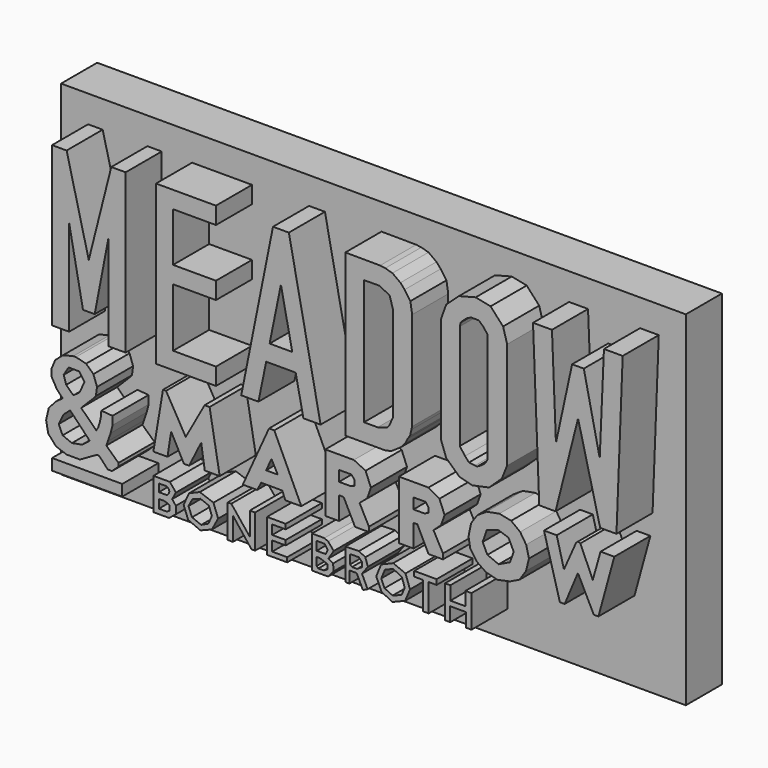
from build123d import *

# Parameters (mm, degrees)
F0_W     = 7.781072
F0_H     = 1.239631
F2_DEPTH = 10
F3_W     = 69.258133
F3_H     = 38.1514123977
F4_DEPTH = 5


with BuildPart() as f2:
    # F0 (on Front) → F2 (new body)
    with BuildSketch(Plane.XZ):
        with Locations((-27.738531, -15.3535525)):
            Rectangle(F0_W, F0_H)
    extrude(amount=F2_DEPTH)



with BuildPart() as f2b:
    # F0 (on Front) → F2, piece 2 (new body)
    with BuildSketch(Plane.XZ):
        Polygon((31.629066, 15.801307), (29.551824, 15.801307), (29.081784, 4.994344), (27.31923, 13.161697), (26.021398, 13.161697), (24.230336, 4.892111), (23.788804, 15.801307), (21.687425, 15.801307), (22.379997, -1.787542), (24.185076, -1.787542), (26.681715, 8.091506), (29.133267, -1.787542), (30.938798, -1.787542), align=None)
    extrude(amount=F2_DEPTH)


with BuildPart() as f2c:
    # F0 (on Front) → F2, piece 3 (new body)
    with BuildSketch(Plane.XZ):
        Polygon((-13.460064, -1.795186), (-13.460064, 0.096366), (-18.214188, 0.096366), (-18.214188, 6.585074), (-13.460064, 6.585074), (-13.460064, 8.477034), (-18.214188, 8.477034), (-18.214188, 13.909777), (-13.460064, 13.909777), (-13.460064, 15.801329), (-20.105717, 15.801329), (-20.105717, -1.795186), align=None)
    extrude(amount=F2_DEPTH)


with BuildPart() as f2d:
    # F0 (on Front) → F2, piece 4 (new body)
    with BuildSketch(Plane.XZ):
        Polygon((-25.061746, 15.801329), (-27.560323, 5.914615), (-30.013769, 15.801329), (-31.629067, 15.801329), (-31.629067, -1.795186), (-29.737537, -1.795186), (-29.737537, 8.850956), (-28.197838, 0.844468), (-26.900005, 0.844468), (-25.360328, 8.850956), (-25.360328, -1.795186), (-23.468777, -1.795186), (-23.468777, 15.801329), align=None)
    extrude(amount=F2_DEPTH)


with BuildPart() as f2e:
    # F0 (on Front) → F2, piece 5 (new body)
    with BuildSketch(Plane.XZ):
        Polygon((-1.857649, -1.795186), (-5.376965, 15.801329), (-7.136612, 15.801329), (-10.655907, -1.795186), (-8.748895, -1.795186), (-7.89055, 2.383995), (-4.623006, 2.383995), (-3.764661, -1.795186), align=None)
        Polygon((-5.001062, 4.275525), (-7.512515, 4.275525), (-6.256778, 10.442031), align=None, mode=Mode.SUBTRACT)
    extrude(amount=F2_DEPTH)


with BuildPart() as f2f:
    # F1 (on Front) → F2, piece 6 (new body)
    with BuildSketch(Plane.XZ):
        Polygon((10.1046338677, -4.0431474335), (6.8218661472, -4.0431474335), (6.8218661472, -10.5357337743), (8.441365324, -10.5357337743), (8.441365324, -8.0262394622), (8.8644772768, -8.0262394622), (10.1046338677, -10.5357337743), (11.709542945, -10.5357337743), (11.709542945, -9.9521297961), (10.659057647, -8.0262394622), (11.505282484, -7.238375023), (11.8836591635, -6.1437853893), (11.3156111911, -4.743471276), align=None)
        Polygon((8.441365324, -6.7204271909), (8.441365324, -5.5459258147), (9.7836526111, -5.5459258147), (10.1046338677, -5.9690377675), (10.1046338677, -6.5088709816), (9.6669318154, -6.7204271909), align=None, mode=Mode.SUBTRACT)
    extrude(amount=F2_DEPTH)


with BuildPart() as f2g:
    # F1 (on Front) → F2, piece 7 (new body)
    with BuildSketch(Plane.XZ):
        Polygon((-26.5068523586, -10.0844670087), (-26.7253834754, -10.4532707483), (-28.4014325589, -8.7909605354), (-26.9169238013, -7.294182423), (-26.7665982246, -7.101174444), (-26.6429558396, -6.1807218008), (-27.0413607359, -5.0541977398), (-27.851909399, -4.2986022308), (-28.97843346, -4.0238401853), (-29.2656477541, -4.0238401853), (-30.4209329188, -4.3123406358), (-31.2726944685, -5.0541977398), (-31.6710993648, -6.0021267273), (-31.6710993648, -6.8264123984), (-31.0941003263, -7.8524462879), (-30.4484087974, -8.5299368948), (-31.2177427113, -9.0931998566), (-31.9870784879, -9.9586993456), (-32.2893150151, -11.2500814721), (-32.0420302451, -12.5002479181), (-31.1765279621, -13.4619148448), (-30.0087910146, -13.8740576804), (-28.5250749439, -13.8740576804), (-26.6566947103, -12.8024863079), (-26.4231469482, -12.8024863079), (-25.4477411509, -13.8465818018), (-24.9806456268, -13.8465818018), (-24.2662653327, -13.1734153256), (-24.2662653327, -12.8162242472), (-25.6125982851, -11.5660578012), (-25.4477411509, -11.0989622772), (-25.131765753, -10.1922471076), (-24.9256938696, -9.3542234972), (-24.9256938696, -8.4337703884), (-26.1676385999, -8.334832266), (-26.2216818446, -9.0132231777), (-26.3283196837, -9.4893528149), align=None)
        Polygon((-30.3747653961, -10.0844670087), (-29.6192206442, -9.4305658713), (-27.4420622736, -11.7071382701), (-28.2870791852, -12.3433852568), (-29.4303353876, -12.5620961189), (-30.4542966187, -12.1346171945), (-30.8917164803, -11.1802462488), align=None, mode=Mode.SUBTRACT)
        Polygon((-28.5680610687, -7.3373052292), (-29.2656477541, -7.8524462879), (-30.0598237664, -7.0797349326), (-30.3388573229, -6.1997026205), (-29.8022534698, -5.298206117), (-28.6109894514, -5.298206117), (-28.0421879143, -6.1460421421), align=None, mode=Mode.SUBTRACT)
    extrude(amount=F2_DEPTH)


with BuildPart() as f2h:
    # F1 (on Front) → F2, piece 8 (new body)
    with BuildSketch(Plane.XZ):
        Polygon((16.5565069765, -4.3049408936), (15.5175542459, -4.976911936), (14.8318205029, -5.9690377675), (14.5400194451, -7.3696854524), (14.7296898067, -8.4639415145), (15.4591938481, -9.5290178433), (16.4534877986, -10.2255549282), (17.7191533148, -10.5640469119), (19.1213041544, -10.2731119841), (20.1954056424, -9.7539623983), (20.9158845246, -8.6682029068), (21.2368667126, -7.355095353), (20.9274701774, -6.1003486626), (20.2652029693, -5.0745890476), (19.2644428462, -4.3093026616), (17.9546270519, -4.0431474335), align=None)
        Polygon((16.1060863685, -7.4047940161), (16.5565069765, -6.1003486626), (17.8373772651, -5.6626461446), (18.9760527627, -6.0562623827), (19.5442690127, -7.2318810025), (19.1424200013, -8.3943727361), (17.8810413927, -9.0040396899), (16.6300926358, -8.4889438003), align=None, mode=Mode.SUBTRACT)
    extrude(amount=F2_DEPTH)


with BuildPart() as f2i:
    # F1 (on Front) → F2, piece 9 (new body)
    with BuildSketch(Plane.XZ):
        Polygon((7.5561217964, -13.2579887286), (6.1974469572, -12.6948077232), (4.8528518528, -13.2579887286), (4.3107899837, -14.5885040984), (4.8880507238, -15.9119796008), (6.1036472299, -16.5152749827), (7.5138835236, -15.9401372075), (8.0489050597, -14.6518610418), align=None)
        Polygon((5.2752378397, -13.6240562424), (6.1974469572, -13.2579887286), (7.1478150785, -13.7296523899), (7.4716443196, -14.6870603785), (7.1126162075, -15.5036728829), (6.1270492151, -15.8767811954), (5.2329991013, -15.4543947428), (4.8669315875, -14.6166626364), align=None, mode=Mode.SUBTRACT)
    extrude(amount=F2_DEPTH)


with BuildPart() as f2j:
    # F1 (on Front) → F2, piece 10 (new body)
    with BuildSketch(Plane.XZ):
        Polygon((2.3974874057, -12.751265429), (0.89039671, -12.7943251282), (0.89039671, -16.2678100169), (1.3353474205, -16.2678100169), (1.3353474205, -14.9760190398), (2.1391289774, -14.9760190398), (2.8280848637, -16.4113435894), (3.3539663395, -16.1589204435), (2.7279481396, -14.8547160544), (3.3878614195, -13.9569379389), (3.1007963698, -13.1244501099), align=None)
        Polygon((1.412178739, -14.3716884777), (1.412178739, -13.389158994), (1.491978066, -13.3542465046), (2.3747582454, -13.3542465046), (2.7089179493, -13.6784315109), (2.7089179493, -14.2320394516), (2.6191438083, -14.2819136381), (2.1952097304, -14.5562244579), (1.6266393941, -14.5562244579), align=None, mode=Mode.SUBTRACT)
    extrude(amount=F2_DEPTH)


with BuildPart() as f2k:
    # F1 (on Front) → F2, piece 11 (new body)
    with BuildSketch(Plane.XZ):
        Polygon((1.8320573727, -4.0431474335), (-1.3339903671, -4.0431474335), (-1.3339903671, -10.5357337743), (0.1833780989, -10.5357337743), (0.1833780989, -8.0262394622), (0.694030954, -8.0262394622), (1.9633681513, -10.5357337743), (3.4953267314, -10.5357337743), (3.4953267314, -10.0104911253), (2.4594308343, -8.0262394622), (3.3056556713, -7.3113255203), (3.7141779903, -6.1295288615), (3.1305747107, -4.6705207787), align=None)
        Polygon((0.1833780989, -6.713132374), (0.1833780989, -5.5459258147), (1.5548459487, -5.5459258147), (1.9050077535, -5.9690382332), (1.9050077535, -6.5380511805), (1.4818954514, -6.713132374), align=None, mode=Mode.SUBTRACT)
    extrude(amount=F2_DEPTH)


with BuildPart() as f2l:
    # F1 (on Front) → F2, piece 12 (new body)
    with BuildSketch(Plane.XZ):
        Polygon((-19.3303823471, -4.0710284375), (-20.3943345696, -10.4532707483), (-18.8293401152, -10.4532707483), (-18.4252355248, -7.8524462879), (-17.0142930001, -10.5428956449), (-16.4389573038, -10.5428956449), (-15.0965061039, -7.8524462879), (-14.6992504597, -10.4532707483), (-13.0417346954, -10.4532707483), (-14.1650103033, -4.0772124194), (-14.7129492834, -4.0772124194), (-16.8088171631, -7.8524462879), (-18.9937241375, -4.0710284375), align=None)
    extrude(amount=F2_DEPTH)


with BuildPart() as f2m:
    # F1 (on Front) → F2, piece 13 (new body)
    with BuildSketch(Plane.XZ):
        Polygon((24.3145879358, -4.0758317336), (22.904234007, -4.0758317336), (24.6671754867, -10.5007756501), (25.1960586756, -10.5007756501), (26.6651753336, -6.9944802672), (28.4281186759, -10.5007756501), (28.9374124259, -10.5007756501), (30.7003539056, -4.0954202414), (29.1724707931, -4.0954202414), (28.3105894923, -7.1511860006), (26.9394125789, -4.0170671418), (26.6651753336, -3.9387140423), (26.4692939818, -4.0954202414), (25.1177046448, -7.1511860006), align=None)
    extrude(amount=F2_DEPTH)


with BuildPart() as f2n:
    # F1 (on Front) → F2, piece 14 (new body)
    with BuildSketch(Plane.XZ):
        Polygon((-11.7547838017, -12.7301309258), (-12.1563430876, -12.7301309258), (-12.1563430876, -16.3990017361), (-11.5784900263, -16.3990017361), (-11.5784900263, -13.8329407534), (-9.511930868, -16.4577663279), (-9.1201653704, -16.4577663279), (-9.1201653704, -12.7301309258), (-9.7090082563, -12.7301309258), (-9.7090082563, -15.2873321202), align=None)
    extrude(amount=F2_DEPTH)


with BuildPart() as f2o:
    # F1 (on Front) → F2, piece 15 (new body)
    with BuildSketch(Plane.XZ):
        Polygon((-5.7215829656, -12.7301309258), (-7.7979592606, -12.7301309258), (-7.7979592606, -16.4380853827), (-5.5551131597, -16.4380853827), (-5.5551131597, -15.932676738), (-7.2202229825, -15.932676738), (-7.2202229825, -14.8401791675), (-5.7215829656, -14.8401791675), (-5.7215829656, -14.3072963976), (-7.2202229825, -14.3072963976), (-7.2202229825, -13.2759434916), (-5.7215829656, -13.2759434916), align=None)
    extrude(amount=F2_DEPTH)


with BuildPart() as f2p:
    # F1 (on Front) → F2, piece 16 (new body)
    with BuildSketch(Plane.XZ):
        Polygon((11.001419276, -12.6948077232), (8.5205696523, -12.6948077232), (8.5205696523, -13.2579887286), (9.4850165769, -13.2579887286), (9.4850165769, -16.3258332759), (10.11834573, -16.3258332759), (10.11834573, -13.2579887286), (11.001419276, -13.2579887286), align=None)
    extrude(amount=F2_DEPTH)


with BuildPart() as f2q:
    # F1 (on Front) → F2, piece 17 (new body)
    with BuildSketch(Plane.XZ):
        Polygon((12.5254336745, -12.7943251282), (11.9343437254, -12.7943251282), (11.9343437254, -16.404170543), (12.5111909583, -16.404170543), (12.5111909583, -14.8445479572), (14.248852618, -14.8445479572), (14.248852618, -16.3685623556), (14.8684279993, -16.3685623556), (14.8684279993, -12.7943251282), (14.1990007833, -12.7943251282), (14.1990007833, -14.2961880192), (12.5254336745, -14.2961880192), align=None)
    extrude(amount=F2_DEPTH)


with BuildPart() as f2r:
    # F1 (on Front) → F2, piece 18 (new body)
    with BuildSketch(Plane.XZ):
        Polygon((4.7365585342, 15.8783942461), (0.888770388, 15.9038864076), (0.888770388, -1.9759200513), (5.3099459037, -1.9759200513), (5.9700487182, -1.8269171705), (6.4514880069, -1.5105428174), (7.0429705083, -1.0978806531), (7.524409797, -0.5614198162), (7.8132729977, 0), (8.0608706921, 0.3601923818), (8.2121798769, 0.992941088), (8.287768811, 1.3201517286), (8.287768811, 12.2338747606), (8.0968104303, 13.4959844872), (7.4546844698, 14.4038191065), (6.9896960631, 14.9352336302), (6.1040045694, 15.5773600563), (5.3099459037, 15.8031005412), align=None)
        Polygon((2.9514958151, 0), (2.9514958151, 13.8724492863), (4.6310229227, 13.8815613464), (5.7943877764, 13.3190900087), (6.1726230197, 12.0237106457), (6.1726230197, 1.5398125397), (6.1382660642, 1.4588218182), (5.7293698192, 0.5412992323), (5.4800431244, 0.301945518), (4.4727632776, 0), align=None, mode=Mode.SUBTRACT)
    extrude(amount=F2_DEPTH)


with BuildPart() as f2s:
    # F1 (on Front) → F2, piece 19 (new body)
    with BuildSketch(Plane.XZ):
        Polygon((12.067749165, 14.4626069814), (11.5000559017, 12.8838289529), (11.5000559017, 1.0321560549), (12.067749165, -0.5258760066), (13.5275274515, -1.8733632751), (14.9592319503, -2.2523440421), (16.8120265007, -1.8593268469), (18.229695037, -0.5258760066), (18.8192222267, 0.9339019307), (18.8192222267, 12.7723868936), (18.3694325387, 14.3638299778), (16.9842876494, 15.8783942461), (15.3339030221, 16.2205137312), (13.477771543, 15.7355833799), align=None)
        Polygon((13.5673563927, 1.1261657346), (13.5673563927, 12.7925964333), (13.6660393327, 13.223527992), (13.9532759786, 13.5107646379), (14.3597433344, 13.8630364704), (14.8226651137, 14.0852388608), (15.6712774187, 14.0852388608), (16.1644574255, 13.6462543773), (16.6522189975, 13.006745899), (16.6522189975, 1.0477733481), (16.6522189975, 0.8059247099), (16.3468215615, 0.3180287313), (15.913547948, 0), (15.515643172, -0.2301958157), (15.2503736317, -0.2301958157), (14.5896729082, -0.1354169071), (14.154644683, 0.3431144287), align=None, mode=Mode.SUBTRACT)
    extrude(amount=F2_DEPTH)


with BuildPart() as f2t:
    # F1 (on Front) → F2, piece 20 (new body)
    with BuildSketch(Plane.XZ):
        Polygon((-8.8916523382, -10.4532707483), (-8.4376512095, -9.604498744), (-6.1144758947, -9.604498744), (-5.7638077997, -10.4532707483), (-3.9958567359, -10.4532707483), (-6.9911461323, -4.0230331942), (-7.5755924918, -4.0230331942), (-10.481971316, -10.4532707483), align=None)
        Polygon((-7.899527438, -8.2159107551), (-7.301333826, -6.9173937663), (-6.615600083, -8.2159107551), align=None, mode=Mode.SUBTRACT)
    extrude(amount=F2_DEPTH)


with BuildPart() as f2u:
    # F1 (on Front) → F2, piece 21 (new body)
    with BuildSketch(Plane.XZ):
        Polygon((-18.5593193972, -12.8162242472), (-20.3943345696, -12.8162242472), (-20.3943345696, -16.3664035499), (-18.6584871262, -16.3664035499), (-17.9065601659, -15.7648576916), (-17.9065601659, -14.9305304512), (-18.315360954, -14.4195331104), (-17.8983192891, -13.6424684897), align=None)
        Polygon((-19.7854954749, -15.8241856843), (-19.7854954749, -14.8913124576), (-19.2639362067, -14.8729002103), (-18.9440860819, -14.9399268708), (-18.5886824025, -15.1306679472), (-18.5886824025, -15.6387191933), (-18.6747536063, -15.7075766474), (-18.9570710063, -15.8241856843), align=None, mode=Mode.SUBTRACT)
        Polygon((-19.7854954749, -14.2167219892), (-19.7854954749, -13.358136639), (-18.9047530293, -13.358136639), (-18.6776425689, -13.5797066614), (-18.6222512275, -13.7901995331), (-18.716417253, -14.0505442396), (-18.893674016, -14.2167219892), align=None, mode=Mode.SUBTRACT)
    extrude(amount=F2_DEPTH)


with BuildPart() as f2v:
    # F1 (on Front) → F2, piece 22 (new body)
    with BuildSketch(Plane.XZ):
        Polygon((-13.7323057279, -13.2734533399), (-15.2519121766, -12.7301309258), (-16.4389573038, -13.231006451), (-17.0431789011, -14.5468665287), (-16.5423043072, -15.8627275378), (-15.1755074039, -16.4484977722), (-13.9105832204, -15.9476213157), (-13.2199182333, -14.6607203381), align=None)
        Polygon((-16.5086973524, -14.5114744408), (-16.0584058613, -13.6724561453), (-15.1755074039, -13.358136639), (-14.2416711897, -13.7233929709), (-13.9105832204, -14.6232713014), (-14.2926070839, -15.5061716214), (-15.0965061039, -15.8881954849), (-16.1093436182, -15.4722137377), align=None, mode=Mode.SUBTRACT)
    extrude(amount=F2_DEPTH)


with BuildPart() as f2w:
    # F1 (on Front) → F2, piece 23 (new body)
    with BuildSketch(Plane.XZ):
        Polygon((-1.4415745391, -12.7301309258), (-2.8127515689, -12.7301309258), (-2.8127515689, -16.3500833977), (-1.0204340677, -16.3500833977), (-0.4035222348, -15.6400693304), (-0.4818751888, -14.8957153506), (-0.9861653545, -14.5792984526), (-0.4023497714, -13.6488410118), (-1.0204273276, -12.9220746458), align=None)
        Polygon((-2.2936630994, -15.7329868525), (-2.2936630994, -14.8515161127), (-1.9508687546, -14.8417213932), (-1.0889860569, -15.1551337913), (-1.0889860569, -15.6840160489), (-1.5003936985, -15.909280628), (-2.1075748373, -15.909280628), align=None, mode=Mode.SUBTRACT)
        Polygon((-2.2936630994, -14.2442807555), (-2.2936630994, -13.2759434916), (-1.4023945465, -13.2759434916), (-1.0693943392, -13.7910849864), (-1.2947185598, -14.2442807555), align=None, mode=Mode.SUBTRACT)
    extrude(amount=F2_DEPTH)


with BuildPart() as f2_1:
    add(f2.part)

    add(f2b.part)  # F4 merges F2b

    add(f2c.part)  # F4 merges F2c

    add(f2d.part)  # F4 merges F2d

    add(f2e.part)  # F4 merges F2e

    add(f2f.part)  # F4 merges F2f

    add(f2g.part)  # F4 merges F2g

    add(f2h.part)  # F4 merges F2h

    add(f2i.part)  # F4 merges F2i

    add(f2j.part)  # F4 merges F2j

    add(f2k.part)  # F4 merges F2k

    add(f2l.part)  # F4 merges F2l

    add(f2m.part)  # F4 merges F2m

    add(f2n.part)  # F4 merges F2n

    add(f2o.part)  # F4 merges F2o

    add(f2p.part)  # F4 merges F2p

    add(f2q.part)  # F4 merges F2q

    add(f2r.part)  # F4 merges F2r

    add(f2s.part)  # F4 merges F2s

    add(f2t.part)  # F4 merges F2t

    add(f2u.part)  # F4 merges F2u

    add(f2v.part)  # F4 merges F2v

    add(f2w.part)  # F4 merges F2w
    # F3 (on Front) → F4 (join)
    with BuildSketch(Plane.XZ):
        with Locations((-5e-07, -0.2743771988)):
            Rectangle(F3_W, F3_H)
    extrude(amount=F4_DEPTH)


solid = f2_1.part
